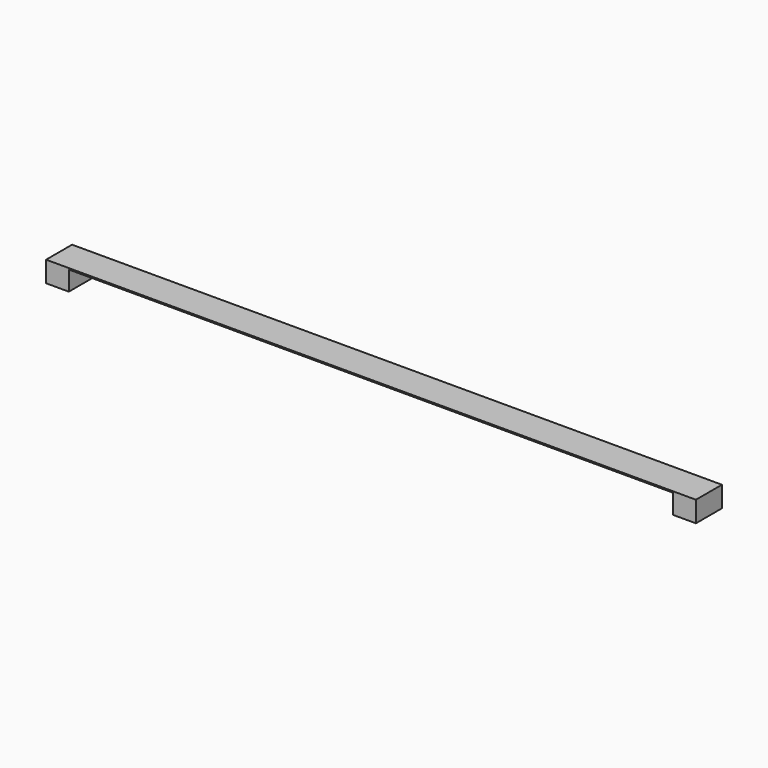
from build123d import *

# Parameters (mm, degrees)
F0_W     = 7
F0_H     = 10
F1_DEPTH = 6
F0_W_2   = 186
F2_DEPTH = 0.4


with BuildPart() as f1:
    # F0 (on Top) → F1 (new body)
    with BuildSketch(Plane.XY):
        with Locations((-96.5, -5)):
            Rectangle(F0_W, F0_H)
    extrude(amount=-F1_DEPTH)



with BuildPart() as f1b:
    # F0 (on Top) → F1, piece 2 (new body)
    with BuildSketch(Plane.XY):
        with Locations((96.5, -5)):
            Rectangle(F0_W, F0_H)
    extrude(amount=-F1_DEPTH)


with BuildPart() as f1_1:
    add(f1.part)

    add(f1b.part)  # F2 merges F1b
    # F0 (on Top) → F2 (join)
    with BuildSketch(Plane.XY):
        with Locations((-96.5, -5)):
            Rectangle(F0_W, F0_H)
        with Locations((0, -5)):
            Rectangle(F0_W_2, F0_H)
        with Locations((96.5, -5)):
            Rectangle(F0_W, F0_H)
    extrude(amount=F2_DEPTH)


solid = f1_1.part
